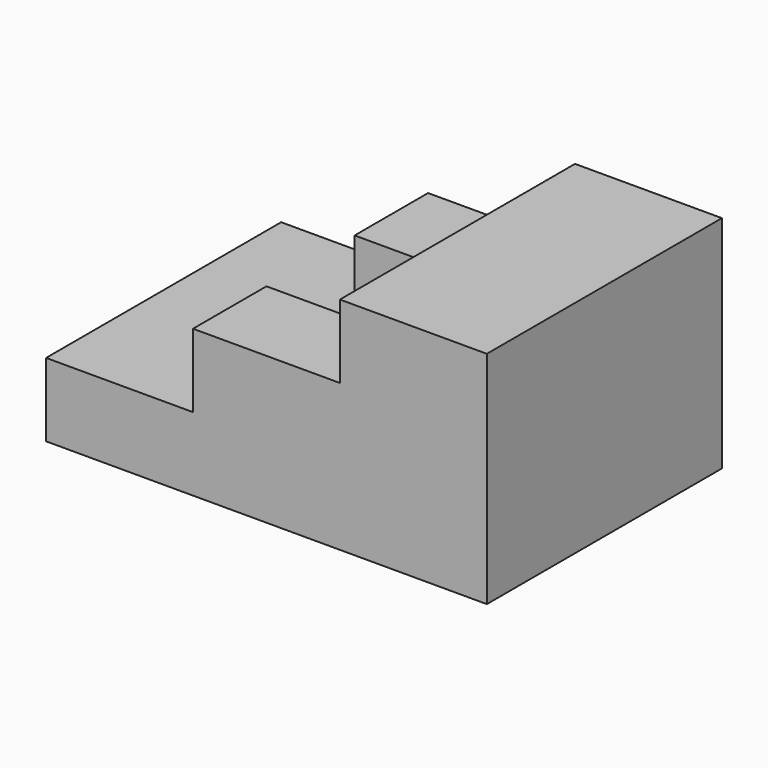
from build123d import *

# Parameters (mm, degrees)
F0_W     = 76.2
F0_H     = 50.8
F1_DEPTH = 12.7
F2_W     = 50.8
F2_H     = 50.8
F3_DEPTH = 12.7
F4_W     = 25.4
F4_H     = 19.05
F5_DEPTH = 12.7
F6_W     = 25.4
F6_H     = 50.8
F7_DEPTH = 12.7


with BuildPart() as f1:
    # F0 (on Top) → F1 (new body)
    with BuildSketch(Plane.XY):
        Rectangle(F0_W, F0_H)
    extrude(amount=F1_DEPTH)

    # F2 (on face) → F3 (join)
    with BuildSketch(Plane.XY.offset(12.7)):
        with Locations((12.7, 0)):
            Rectangle(F2_W, F2_H)
    extrude(amount=F3_DEPTH)

    # F4 (on face) → F5 (cut)
    with BuildSketch(Plane.XY.offset(25.4)):
        Rectangle(F4_W, F4_H)
    extrude(amount=-F5_DEPTH, mode=Mode.SUBTRACT)

    # F6 (on face) → F7 (join)
    with BuildSketch(Plane.XY.offset(25.4)):
        with Locations((25.4, 0)):
            Rectangle(F6_W, F6_H)
        Polygon((38.1, -25.4), (38.1, 25.4), (12.7, 25.4), (12.7, 9.525), (12.7, -9.525), (12.7, -25.4), align=None)
    extrude(amount=F7_DEPTH)


solid = f1.part
